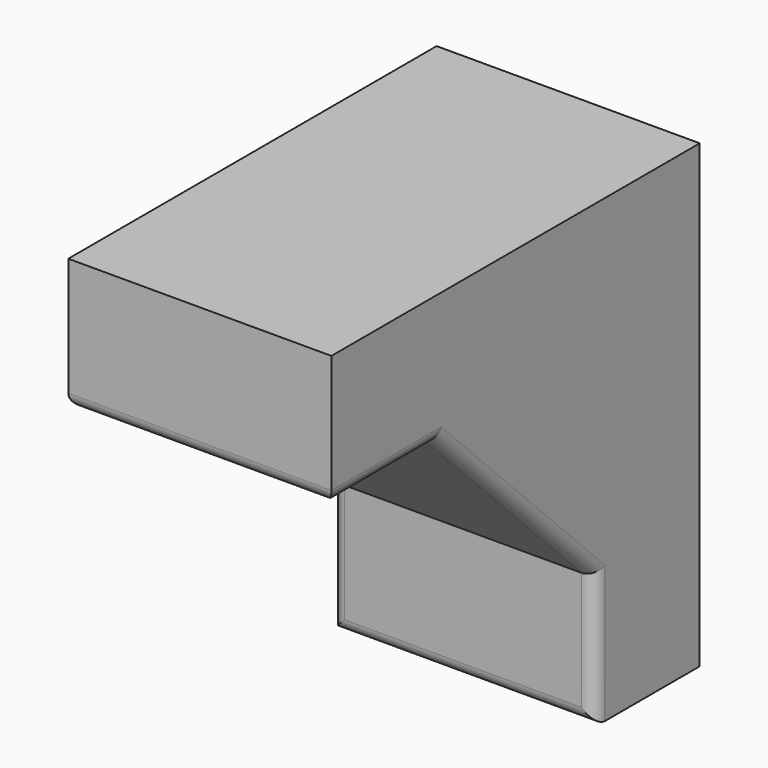
from build123d import *

# Parameters (mm, degrees)
F1_DEPTH = 50.8
F2_R     = 5.08


with BuildPart() as f1:
    # F0 (on Right) → F1 (new body, symmetric)
    with BuildSketch(Plane.YZ):
        Polygon((0, -88.9), (0, 88.9), (-177.8, 88.9), (-177.8, 38.1), (-127, 38.1), (-50.8, -38.1), (-50.8, -88.9), align=None)
    extrude(amount=F1_DEPTH, both=True)

    # F2
    f2_edges = [f1.edges().sort_by_distance(p)[0] for p in [
        (0, -177.8, 38.1),
        (50.8, -152.4, 38.1),
        (50.8, -88.9, 0),
        (50.8, -50.8, -63.5),
        (0, -50.8, -88.9),
        (-50.8, -152.4, 38.1),
        (-50.8, -88.9, 0),
        (-50.8, -50.8, -63.5),
    ]]
    fillet(f2_edges, radius=F2_R)


solid = f1.part
